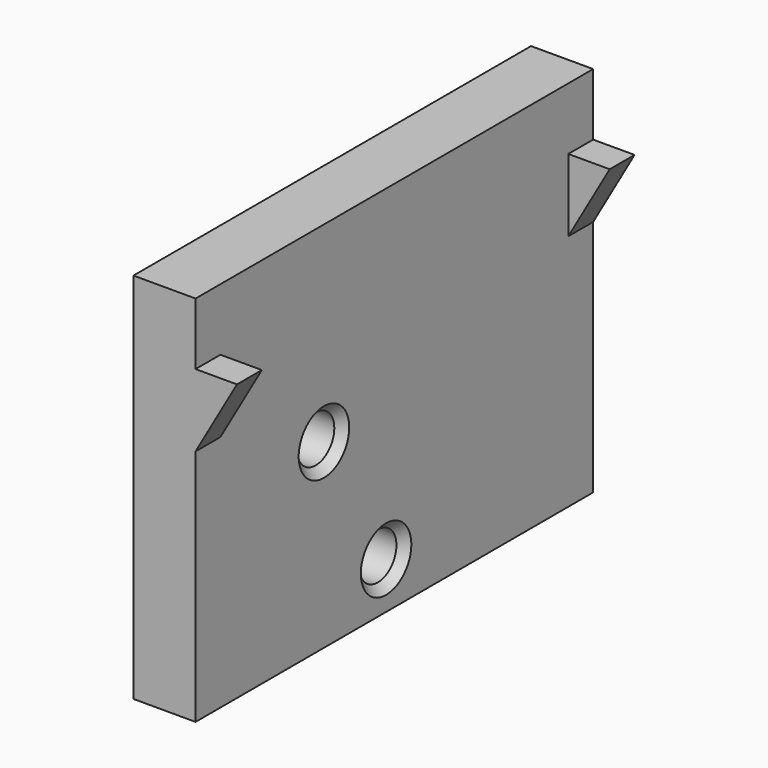
from build123d import *

# Parameters (mm, degrees)
SKETCH002_W         = 6
SKETCH002_H         = 48
PAD001_DEPTH        = 6
PAD001_DEPTH_BACK   = 30
PAD002_DEPTH        = 3
HOLE004_D           = 4.5
HOLE004_DEPTH       = 25
HOLE004_CSINK_D     = 6.1
HOLE004_CSINK_ANGLE = 90


with BuildPart() as part:
    # Sketch002 (on Face1 of Binder001) → Pad001 (new body, two sides)
    with BuildSketch(Plane.XY) as pad001_sk:
        with Locations((-24, 0)):
            Rectangle(SKETCH002_W, SKETCH002_H)
    extrude(amount=PAD001_DEPTH)
    extrude(pad001_sk.sketch, amount=-PAD001_DEPTH_BACK)

    # Sketch003 (on Face3 of Pad001) → Pad002 (join)
    with BuildSketch(Plane.XZ.offset(24)):
        Polygon((-21, 0), (-21, -7), (-17, 0), align=None)
    pad002 = extrude(amount=-PAD002_DEPTH)

    # Mirrored: Pad002 across XZ
    add(pad002.mirror(Plane.XZ))

    # Hole004
    with Locations(Plane(origin=(-21, -191, 0), x_dir=(0, -1, 0), z_dir=(1, 0, 0))):
        with Locations((-189.999737, 25.501831), (-182.5, 12.5)):
            CounterSinkHole(HOLE004_D / 2, HOLE004_CSINK_D / 2, depth=HOLE004_DEPTH, counter_sink_angle=HOLE004_CSINK_ANGLE)


solid = part.part
